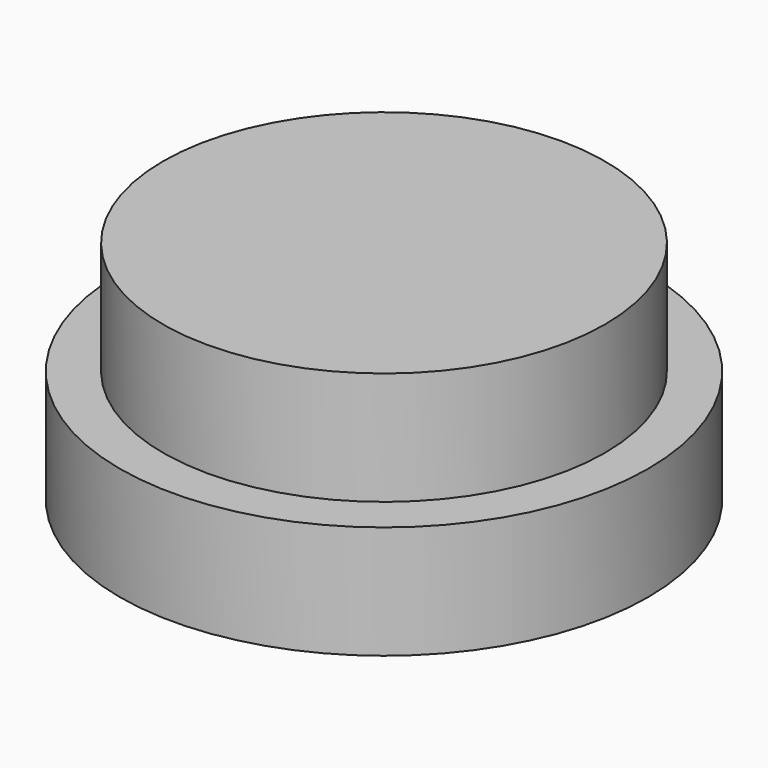
from build123d import *

# Parameters (mm, degrees)
F0_R     = 59.351659
F1_DEPTH = 25.4
F2_R     = 49.654399
F3_DEPTH = 25.4


with BuildPart() as f1:
    # F0 (on Top) → F1 (new body)
    with BuildSketch(Plane.XY):
        Circle(F0_R)
    extrude(amount=F1_DEPTH)

    # F2 (on face) → F3 (join)
    with BuildSketch(Plane.XY.offset(25.4)):
        Circle(F2_R)
        Circle(F2_R)
    extrude(amount=F3_DEPTH)


solid = f1.part
